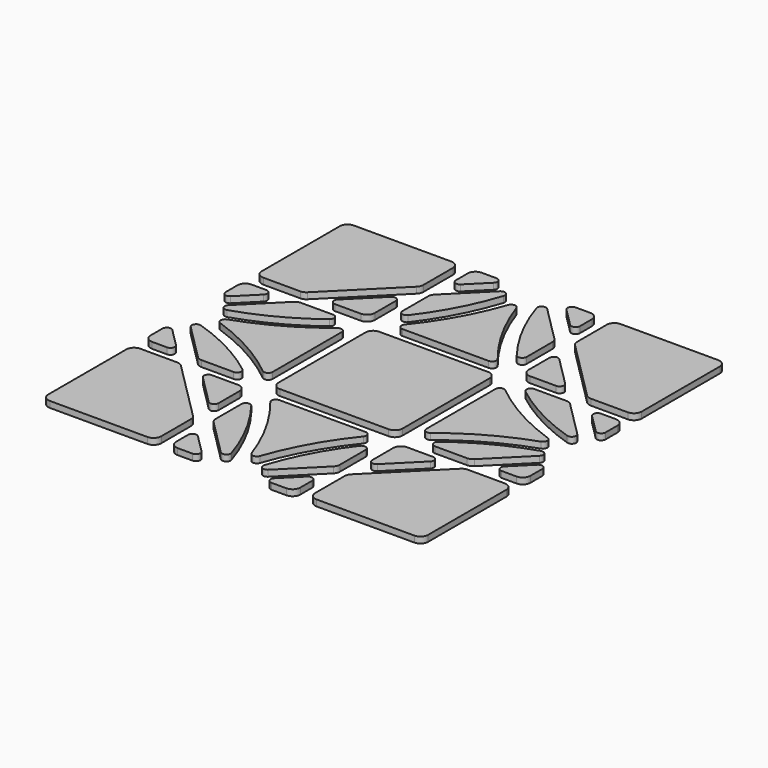
from build123d import *

# Parameters (mm, degrees)
F1_DEPTH = 1


with BuildPart() as f1:
    # F0 (on Top) → F1 (new body)
    with BuildSketch(Plane.XY):
        with BuildLine():
            Line((-23.514823, -12.45), (-29.5, -12.45))
            ThreePointArc((-29.5, -12.45), (-30.383883, -12.816117), (-30.75, -13.7))
            Line((-30.75, -13.7), (-30.75, -29.5))
            ThreePointArc((-30.75, -29.5), (-30.383883, -30.383883), (-29.5, -30.75))
            Line((-29.5, -30.75), (-13.7, -30.75))
            ThreePointArc((-13.7, -30.75), (-12.816117, -30.383883), (-12.45, -29.5))
            Line((-12.45, -29.5), (-12.45, -23.514823))
            ThreePointArc((-12.45, -23.514823), (-12.545151, -23.036469), (-12.816117, -22.63094))
            Line((-12.816117, -22.63094), (-22.63094, -12.816117))
            ThreePointArc((-22.63094, -12.816117), (-23.036469, -12.545151), (-23.514823, -12.45))
        make_face()
        with BuildLine():
            Line((-12.45, -17.912994), (-12.45, -13.7))
            ThreePointArc((-12.45, -13.7), (-12.816117, -12.816117), (-13.7, -12.45))
            Line((-13.7, -12.45), (-17.912994, -12.45))
            ThreePointArc((-17.912994, -12.45), (-18.55971, -12.882122), (-18.407969, -13.644975))
            Line((-18.407969, -13.644975), (-13.644975, -18.407969))
            ThreePointArc((-13.644975, -18.407969), (-12.882122, -18.55971), (-12.45, -17.912994))
        make_face()
        with BuildLine():
            Line((6.986195, -12.45), (-6.986195, -12.45))
            ThreePointArc((-6.986195, -12.45), (-7.617996, -12.848625), (-7.530221, -13.590494))
            ThreePointArc((-7.530221, -13.590494), (-3.558497, -19.472519), (-0.661372, -25.951675))
            ThreePointArc((-0.661372, -25.951675), (0, -26.422356), (0.661372, -25.951675))
            ThreePointArc((0.661372, -25.951675), (3.558497, -19.472519), (7.530221, -13.590494))
            ThreePointArc((7.530221, -13.590494), (7.617996, -12.848625), (6.986195, -12.45))
        make_face()
        with BuildLine():
            ThreePointArc((-10.05, -29.5), (-9.683883, -30.383883), (-8.8, -30.75))
            Line((-8.8, -30.75), (-6.387006, -30.75))
            ThreePointArc((-6.387006, -30.75), (-5.74029, -30.317878), (-5.892031, -29.555025))
            Line((-5.892031, -29.555025), (-8.855025, -26.592031))
            ThreePointArc((-8.855025, -26.592031), (-9.617878, -26.44029), (-10.05, -27.087006))
            Line((-10.05, -27.087006), (-10.05, -29.5))
        make_face()
        with BuildLine():
            Line((-6.986195, 12.45), (0, 12.45))
            Line((0, 12.45), (6.986195, 12.45))
            ThreePointArc((6.986195, 12.45), (7.617996, 12.848625), (7.530221, 13.590494))
            ThreePointArc((7.530221, 13.590494), (3.558497, 19.472519), (0.661372, 25.951675))
            ThreePointArc((0.661372, 25.951675), (0, 26.422356), (-0.661372, 25.951675))
            ThreePointArc((-0.661372, 25.951675), (-3.558497, 19.472519), (-7.530221, 13.590494))
            ThreePointArc((-7.530221, 13.590494), (-7.617996, 12.848625), (-6.986195, 12.45))
        make_face()
        with BuildLine():
            Line((0, 10.05), (-8.8, 10.05))
            ThreePointArc((-8.8, 10.05), (-9.683883, 9.683883), (-10.05, 8.8))
            Line((-10.05, 8.8), (-10.05, -8.8))
            ThreePointArc((-10.05, -8.8), (-9.683883, -9.683883), (-8.8, -10.05))
            Line((-8.8, -10.05), (8.8, -10.05))
            ThreePointArc((8.8, -10.05), (9.683883, -9.683883), (10.05, -8.8))
            Line((10.05, -8.8), (10.05, 8.8))
            ThreePointArc((10.05, 8.8), (9.683883, 9.683883), (8.8, 10.05))
            Line((8.8, 10.05), (0, 10.05))
        make_face()
        with BuildLine():
            ThreePointArc((-10.05, -21.485177), (-9.954849, -21.963531), (-9.683883, -22.36906))
            Line((-9.683883, -22.36906), (-3.830737, -28.222207))
            ThreePointArc((-3.830737, -28.222207), (-2.970478, -28.324365), (-2.669686, -27.511959))
            ThreePointArc((-2.669686, -27.511959), (-5.231795, -21.423583), (-8.795079, -15.861594))
            ThreePointArc((-8.795079, -15.861594), (-9.575339, -15.625543), (-10.05, -16.288282))
            Line((-10.05, -16.288282), (-10.05, -21.485177))
        make_face()
        with BuildLine():
            ThreePointArc((9.683883, -22.36906), (9.954849, -21.963531), (10.05, -21.485177))
            Line((10.05, -21.485177), (10.05, -16.288282))
            ThreePointArc((10.05, -16.288282), (9.575339, -15.625543), (8.795079, -15.861594))
            ThreePointArc((8.795079, -15.861594), (5.231795, -21.423583), (2.669686, -27.511959))
            ThreePointArc((2.669686, -27.511959), (2.970478, -28.324365), (3.830737, -28.222207))
            Line((3.830737, -28.222207), (9.683883, -22.36906))
        make_face()
        with BuildLine():
            ThreePointArc((10.05, -27.087006), (9.617878, -26.44029), (8.855025, -26.592031))
            Line((8.855025, -26.592031), (5.892031, -29.555025))
            ThreePointArc((5.892031, -29.555025), (5.74029, -30.317878), (6.387006, -30.75))
            Line((6.387006, -30.75), (8.8, -30.75))
            ThreePointArc((8.8, -30.75), (9.683883, -30.383883), (10.05, -29.5))
            Line((10.05, -29.5), (10.05, -27.087006))
        make_face()
        with BuildLine():
            ThreePointArc((25.951675, 0.661372), (19.472519, 3.558497), (13.590494, 7.530221))
            ThreePointArc((13.590494, 7.530221), (12.848625, 7.617996), (12.45, 6.986195))
            Line((12.45, 6.986195), (12.45, -6.986195))
            ThreePointArc((12.45, -6.986195), (12.848625, -7.617996), (13.590494, -7.530221))
            ThreePointArc((13.590494, -7.530221), (19.472519, -3.558497), (25.951675, -0.661372))
            ThreePointArc((25.951675, -0.661372), (26.422356, 0), (25.951675, 0.661372))
        make_face()
        with BuildLine():
            ThreePointArc((21.485177, -10.05), (21.963531, -9.954849), (22.36906, -9.683883))
            Line((22.36906, -9.683883), (28.222207, -3.830737))
            ThreePointArc((28.222207, -3.830737), (28.324365, -2.970478), (27.511959, -2.669686))
            ThreePointArc((27.511959, -2.669686), (21.423583, -5.231795), (15.861594, -8.795079))
            ThreePointArc((15.861594, -8.795079), (15.625543, -9.575339), (16.288282, -10.05))
            Line((16.288282, -10.05), (21.485177, -10.05))
        make_face()
        with BuildLine():
            Line((28.222207, 3.830737), (22.36906, 9.683883))
            ThreePointArc((22.36906, 9.683883), (21.963531, 9.954849), (21.485177, 10.05))
            Line((21.485177, 10.05), (16.288282, 10.05))
            ThreePointArc((16.288282, 10.05), (15.625543, 9.575339), (15.861594, 8.795079))
            ThreePointArc((15.861594, 8.795079), (21.423583, 5.231795), (27.511959, 2.669686))
            ThreePointArc((27.511959, 2.669686), (28.324365, 2.970478), (28.222207, 3.830737))
        make_face()
        with BuildLine():
            ThreePointArc((12.45, -17.912994), (12.882122, -18.55971), (13.644975, -18.407969))
            Line((13.644975, -18.407969), (18.407969, -13.644975))
            ThreePointArc((18.407969, -13.644975), (18.55971, -12.882122), (17.912994, -12.45))
            Line((17.912994, -12.45), (13.7, -12.45))
            ThreePointArc((13.7, -12.45), (12.816117, -12.816117), (12.45, -13.7))
            Line((12.45, -13.7), (12.45, -17.912994))
        make_face()
        with BuildLine():
            Line((29.555025, -5.892031), (26.592031, -8.855025))
            ThreePointArc((26.592031, -8.855025), (26.44029, -9.617878), (27.087006, -10.05))
            Line((27.087006, -10.05), (29.5, -10.05))
            ThreePointArc((29.5, -10.05), (30.383883, -9.683883), (30.75, -8.8))
            Line((30.75, -8.8), (30.75, -6.387006))
            ThreePointArc((30.75, -6.387006), (30.317878, -5.74029), (29.555025, -5.892031))
        make_face()
        with BuildLine():
            Line((29.5, 10.05), (27.087006, 10.05))
            ThreePointArc((27.087006, 10.05), (26.44029, 9.617878), (26.592031, 8.855025))
            Line((26.592031, 8.855025), (29.555025, 5.892031))
            ThreePointArc((29.555025, 5.892031), (30.317878, 5.74029), (30.75, 6.387006))
            Line((30.75, 6.387006), (30.75, 8.8))
            ThreePointArc((30.75, 8.8), (30.383883, 9.683883), (29.5, 10.05))
        make_face()
        with BuildLine():
            Line((29.5, -12.45), (23.514823, -12.45))
            ThreePointArc((23.514823, -12.45), (23.036469, -12.545151), (22.63094, -12.816117))
            Line((22.63094, -12.816117), (12.816117, -22.63094))
            ThreePointArc((12.816117, -22.63094), (12.545151, -23.036469), (12.45, -23.514823))
            Line((12.45, -23.514823), (12.45, -29.5))
            ThreePointArc((12.45, -29.5), (12.816117, -30.383883), (13.7, -30.75))
            Line((13.7, -30.75), (29.5, -30.75))
            ThreePointArc((29.5, -30.75), (30.383883, -30.383883), (30.75, -29.5))
            Line((30.75, -29.5), (30.75, -13.7))
            ThreePointArc((30.75, -13.7), (30.383883, -12.816117), (29.5, -12.45))
        make_face()
        with BuildLine():
            ThreePointArc((10.05, 21.485177), (9.954849, 21.963531), (9.683883, 22.36906))
            Line((9.683883, 22.36906), (3.830737, 28.222207))
            ThreePointArc((3.830737, 28.222207), (2.970478, 28.324365), (2.669686, 27.511959))
            ThreePointArc((2.669686, 27.511959), (5.231795, 21.423583), (8.795079, 15.861594))
            ThreePointArc((8.795079, 15.861594), (9.575339, 15.625543), (10.05, 16.288282))
            Line((10.05, 16.288282), (10.05, 21.485177))
        make_face()
        with BuildLine():
            Line((-3.830737, 28.222207), (-9.683883, 22.36906))
            ThreePointArc((-9.683883, 22.36906), (-9.954849, 21.963531), (-10.05, 21.485177))
            Line((-10.05, 21.485177), (-10.05, 16.288282))
            ThreePointArc((-10.05, 16.288282), (-9.575339, 15.625543), (-8.795079, 15.861594))
            ThreePointArc((-8.795079, 15.861594), (-5.231795, 21.423583), (-2.669686, 27.511959))
            ThreePointArc((-2.669686, 27.511959), (-2.970478, 28.324365), (-3.830737, 28.222207))
        make_face()
        with BuildLine():
            ThreePointArc((17.912994, 12.45), (18.55971, 12.882122), (18.407969, 13.644975))
            Line((18.407969, 13.644975), (13.644975, 18.407969))
            ThreePointArc((13.644975, 18.407969), (12.882122, 18.55971), (12.45, 17.912994))
            Line((12.45, 17.912994), (12.45, 13.7))
            ThreePointArc((12.45, 13.7), (12.816117, 12.816117), (13.7, 12.45))
            Line((13.7, 12.45), (17.912994, 12.45))
        make_face()
        with BuildLine():
            Line((5.892031, 29.555025), (8.855025, 26.592031))
            ThreePointArc((8.855025, 26.592031), (9.617878, 26.44029), (10.05, 27.087006))
            Line((10.05, 27.087006), (10.05, 29.5))
            ThreePointArc((10.05, 29.5), (9.683883, 30.383883), (8.8, 30.75))
            Line((8.8, 30.75), (6.387006, 30.75))
            ThreePointArc((6.387006, 30.75), (5.74029, 30.317878), (5.892031, 29.555025))
        make_face()
        with BuildLine():
            Line((-10.05, 29.5), (-10.05, 27.087006))
            ThreePointArc((-10.05, 27.087006), (-9.617878, 26.44029), (-8.855025, 26.592031))
            Line((-8.855025, 26.592031), (-5.892031, 29.555025))
            ThreePointArc((-5.892031, 29.555025), (-5.74029, 30.317878), (-6.387006, 30.75))
            Line((-6.387006, 30.75), (-8.8, 30.75))
            ThreePointArc((-8.8, 30.75), (-9.683883, 30.383883), (-10.05, 29.5))
        make_face()
        with BuildLine():
            Line((12.45, 29.5), (12.45, 23.514823))
            ThreePointArc((12.45, 23.514823), (12.545151, 23.036469), (12.816117, 22.63094))
            Line((12.816117, 22.63094), (22.63094, 12.816117))
            ThreePointArc((22.63094, 12.816117), (23.036469, 12.545151), (23.514823, 12.45))
            Line((23.514823, 12.45), (29.5, 12.45))
            ThreePointArc((29.5, 12.45), (30.383883, 12.816117), (30.75, 13.7))
            Line((30.75, 13.7), (30.75, 29.5))
            ThreePointArc((30.75, 29.5), (30.383883, 30.383883), (29.5, 30.75))
            Line((29.5, 30.75), (13.7, 30.75))
            ThreePointArc((13.7, 30.75), (12.816117, 30.383883), (12.45, 29.5))
        make_face()
        with BuildLine():
            ThreePointArc((-25.951675, -0.661372), (-19.472519, -3.558497), (-13.590494, -7.530221))
            ThreePointArc((-13.590494, -7.530221), (-12.848625, -7.617996), (-12.45, -6.986195))
            Line((-12.45, -6.986195), (-12.45, 6.986195))
            ThreePointArc((-12.45, 6.986195), (-12.848625, 7.617996), (-13.590494, 7.530221))
            ThreePointArc((-13.590494, 7.530221), (-19.472519, 3.558497), (-25.951675, 0.661372))
            ThreePointArc((-25.951675, 0.661372), (-26.422356, 0), (-25.951675, -0.661372))
        make_face()
        with BuildLine():
            ThreePointArc((-21.485177, 10.05), (-21.963531, 9.954849), (-22.36906, 9.683883))
            Line((-22.36906, 9.683883), (-28.222207, 3.830737))
            ThreePointArc((-28.222207, 3.830737), (-28.324365, 2.970478), (-27.511959, 2.669686))
            ThreePointArc((-27.511959, 2.669686), (-21.423583, 5.231795), (-15.861594, 8.795079))
            ThreePointArc((-15.861594, 8.795079), (-15.625543, 9.575339), (-16.288282, 10.05))
            Line((-16.288282, 10.05), (-21.485177, 10.05))
        make_face()
        with BuildLine():
            Line((-28.222207, -3.830737), (-22.36906, -9.683883))
            ThreePointArc((-22.36906, -9.683883), (-21.963531, -9.954849), (-21.485177, -10.05))
            Line((-21.485177, -10.05), (-16.288282, -10.05))
            ThreePointArc((-16.288282, -10.05), (-15.625543, -9.575339), (-15.861594, -8.795079))
            ThreePointArc((-15.861594, -8.795079), (-21.423583, -5.231795), (-27.511959, -2.669686))
            ThreePointArc((-27.511959, -2.669686), (-28.324365, -2.970478), (-28.222207, -3.830737))
        make_face()
        with BuildLine():
            ThreePointArc((-12.45, 17.912994), (-12.882122, 18.55971), (-13.644975, 18.407969))
            Line((-13.644975, 18.407969), (-18.407969, 13.644975))
            ThreePointArc((-18.407969, 13.644975), (-18.55971, 12.882122), (-17.912994, 12.45))
            Line((-17.912994, 12.45), (-13.7, 12.45))
            ThreePointArc((-13.7, 12.45), (-12.816117, 12.816117), (-12.45, 13.7))
            Line((-12.45, 13.7), (-12.45, 17.912994))
        make_face()
        with BuildLine():
            Line((-29.555025, 5.892031), (-26.592031, 8.855025))
            ThreePointArc((-26.592031, 8.855025), (-26.44029, 9.617878), (-27.087006, 10.05))
            Line((-27.087006, 10.05), (-29.5, 10.05))
            ThreePointArc((-29.5, 10.05), (-30.383883, 9.683883), (-30.75, 8.8))
            Line((-30.75, 8.8), (-30.75, 6.387006))
            ThreePointArc((-30.75, 6.387006), (-30.317878, 5.74029), (-29.555025, 5.892031))
        make_face()
        with BuildLine():
            Line((-29.5, -10.05), (-27.087006, -10.05))
            ThreePointArc((-27.087006, -10.05), (-26.44029, -9.617878), (-26.592031, -8.855025))
            Line((-26.592031, -8.855025), (-29.555025, -5.892031))
            ThreePointArc((-29.555025, -5.892031), (-30.317878, -5.74029), (-30.75, -6.387006))
            Line((-30.75, -6.387006), (-30.75, -8.8))
            ThreePointArc((-30.75, -8.8), (-30.383883, -9.683883), (-29.5, -10.05))
        make_face()
        with BuildLine():
            Line((-29.5, 12.45), (-23.514823, 12.45))
            ThreePointArc((-23.514823, 12.45), (-23.036469, 12.545151), (-22.63094, 12.816117))
            Line((-22.63094, 12.816117), (-12.816117, 22.63094))
            ThreePointArc((-12.816117, 22.63094), (-12.545151, 23.036469), (-12.45, 23.514823))
            Line((-12.45, 23.514823), (-12.45, 29.5))
            ThreePointArc((-12.45, 29.5), (-12.816117, 30.383883), (-13.7, 30.75))
            Line((-13.7, 30.75), (-29.5, 30.75))
            ThreePointArc((-29.5, 30.75), (-30.383883, 30.383883), (-30.75, 29.5))
            Line((-30.75, 29.5), (-30.75, 13.7))
            ThreePointArc((-30.75, 13.7), (-30.383883, 12.816117), (-29.5, 12.45))
        make_face()
    extrude(amount=F1_DEPTH)


solid = f1.part
